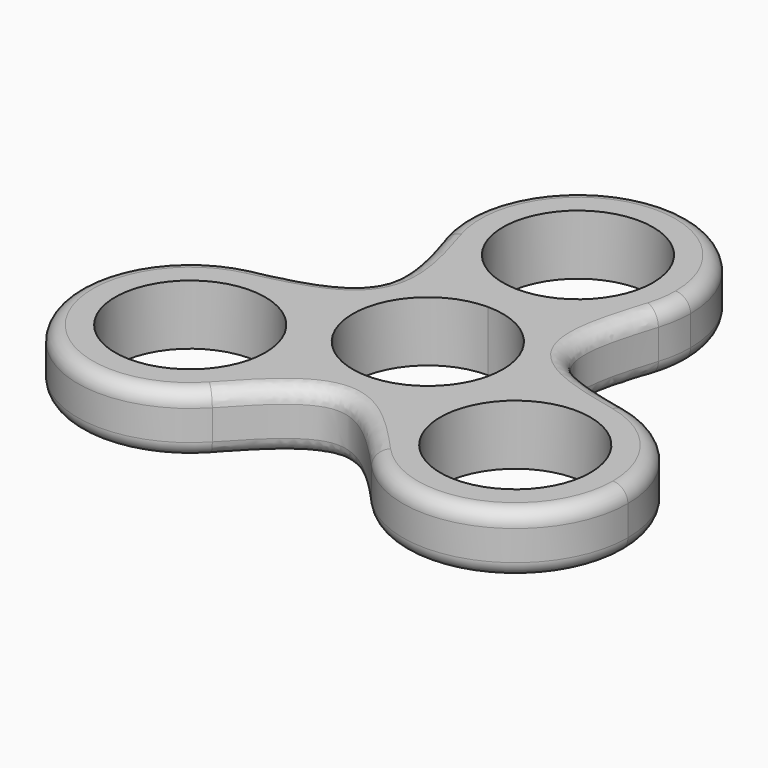
from build123d import *

# Parameters (mm, degrees)
F0_R     = 10
F1_DEPTH = 8
F2_R     = 2
F3_R     = 2


with BuildPart() as f1:
    # F0 (on Top) → F1 (new body)
    with BuildSketch(Plane.XY):
        with BuildLine():
            ThreePointArc((0, 10), (7.071068, 7.071068), (10, 0))
            ThreePointArc((10, 0), (9.659258, -2.58819), (8.660254, -5))
            ThreePointArc((8.660254, -5), (15.614515, 1.231906), (24.908065, 2.142034))
            add(Edge.make_bspline(
                [(24.908065, 2.142034), (19.832471, 3.291186), (9.681283, 5.589492), (12.766486, 15.529831), (14.309088, 20.5)],
                knots=[0, 0, 0, 0, 13.066713, 26.133426, 26.133426, 26.133426, 26.133426], degree=3))
            ThreePointArc((14.309088, 20.5), (8.87412, 12.906613), (0, 10))
        make_face()
        with BuildLine():
            ThreePointArc((-8.660254, -5), (-8.660254, 5), (0, 10))
            ThreePointArc((0, 10), (-8.87412, 12.906613), (-14.309088, 20.5))
            add(Edge.make_bspline(
                [(-14.309088, 20.5), (-12.766486, 15.529831), (-9.681283, 5.589492), (-19.832471, 3.291186), (-24.908065, 2.142034)],
                knots=[0, 0, 0, 0, 13.066713, 26.133426, 26.133426, 26.133426, 26.133426], degree=3))
            ThreePointArc((-24.908065, 2.142034), (-15.614515, 1.231906), (-8.660254, -5))
        make_face()
        with BuildLine():
            ThreePointArc((-14.309088, 20.5), (-8.87412, 12.906613), (0, 10))
            ThreePointArc((0, 10), (8.87412, 12.906613), (14.309088, 20.5))
            ThreePointArc((14.309088, 20.5), (14.826266, 22.723635), (15, 25))
            ThreePointArc((15, 25), (-2.276365, 39.826266), (-14.309088, 20.5))
        make_face()
        with Locations((0, 25)):
            Circle(F0_R, mode=Mode.SUBTRACT)
        with BuildLine():
            ThreePointArc((10.598977, -22.642034), (6.740395, -14.13852), (8.660254, -5))
            ThreePointArc((8.660254, -5), (0, -10), (-8.660254, -5))
            ThreePointArc((-8.660254, -5), (-7.161748, -8.617714), (-6.650635, -12.5))
            ThreePointArc((-6.650635, -12.5), (-7.672529, -17.941743), (-10.598977, -22.642034))
            add(Edge.make_bspline(
                [(10.598977, -22.642034), (7.065985, -18.821017), (0, -11.178983), (-7.065985, -18.821017), (-10.598977, -22.642034)],
                knots=[0, 0, 0, 0, 13.066713, 26.133426, 26.133426, 26.133426, 26.133426], degree=3))
        make_face()
        with BuildLine():
            ThreePointArc((24.908065, 2.142034), (15.614515, 1.231906), (8.660254, -5))
            ThreePointArc((8.660254, -5), (6.740395, -14.13852), (10.598977, -22.642034))
            ThreePointArc((10.598977, -22.642034), (27.092378, -26.478106), (36.650635, -12.5))
            ThreePointArc((36.650635, -12.5), (33.352375, -3.115477), (24.908065, 2.142034))
        make_face()
        with Locations((21.650635, -12.5)):
            Circle(F0_R, mode=Mode.SUBTRACT)
        with BuildLine():
            ThreePointArc((-6.650635, -12.5), (-7.161748, -8.617714), (-8.660254, -5))
            ThreePointArc((-8.660254, -5), (-15.614515, 1.231906), (-24.908065, 2.142034))
            ThreePointArc((-24.908065, 2.142034), (-34.641016, -20), (-10.598977, -22.642034))
            ThreePointArc((-10.598977, -22.642034), (-7.672529, -17.941743), (-6.650635, -12.5))
        make_face()
        with Locations((-21.650635, -12.5)):
            Circle(F0_R, mode=Mode.SUBTRACT)
    extrude(amount=F1_DEPTH)

    # F2
    f2_edges = [f1.edges().sort_by_distance(p)[0] for p in [
        (0, 40, 8),
        (-34.641016, -20, 8),
        (34.641016, -20, 8),
    ]]
    fillet(f2_edges, radius=F2_R)

    # F3
    f3_edges = [f1.edges().sort_by_distance(p)[0] for p in [
        (0, 40, 0),
        (-34.641016, -20, 0),
        (34.641016, -20, 0),
    ]]
    fillet(f3_edges, radius=F3_R)


solid = f1.part
